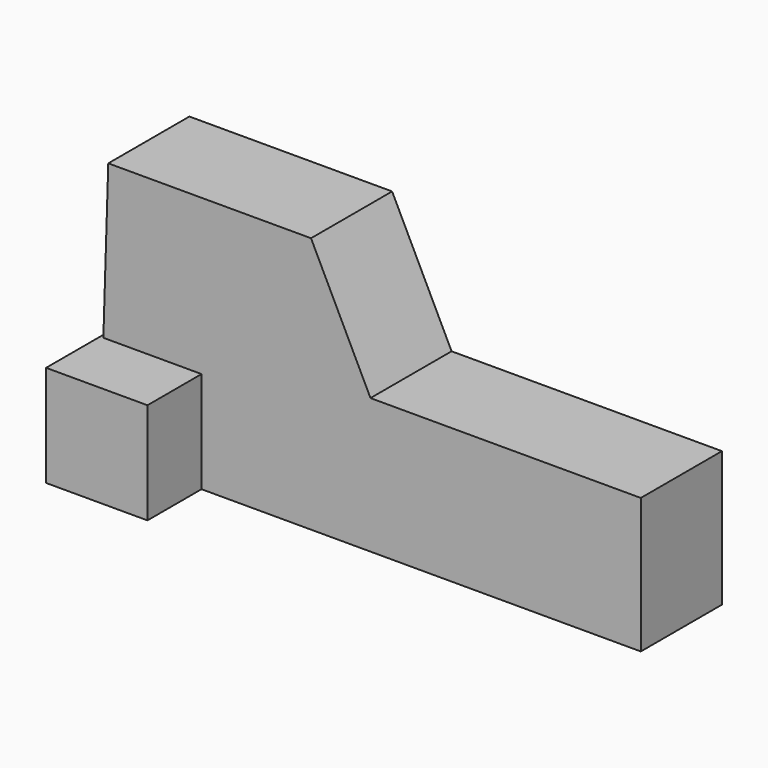
from build123d import *

# Parameters (mm, degrees)
F1_DEPTH      = 19.05
F2_W          = 19.05
F2_H          = 19.05
F3_DEPTH      = 31.75
F3_DEPTH_BACK = 12.7


with BuildPart() as f1:
    # F0 (on Front) → F1 (new body)
    with BuildSketch(Plane.XZ):
        Polygon((1.5262, 48.210221), (0, 0), (101.6, 0), (101.6, 25.4), (53.855859, 25.4), (50.8, 25.4), (39.6262, 48.210221), align=None)
    extrude(amount=F1_DEPTH)

    # F2 (on Front) → F3 (join, two sides)
    with BuildSketch(Plane.XZ) as f3_sk:
        with Locations((9.525, 9.525)):
            Rectangle(F2_W, F2_H)
    extrude(amount=F3_DEPTH)
    extrude(f3_sk.sketch, amount=-F3_DEPTH_BACK)


solid = f1.part
